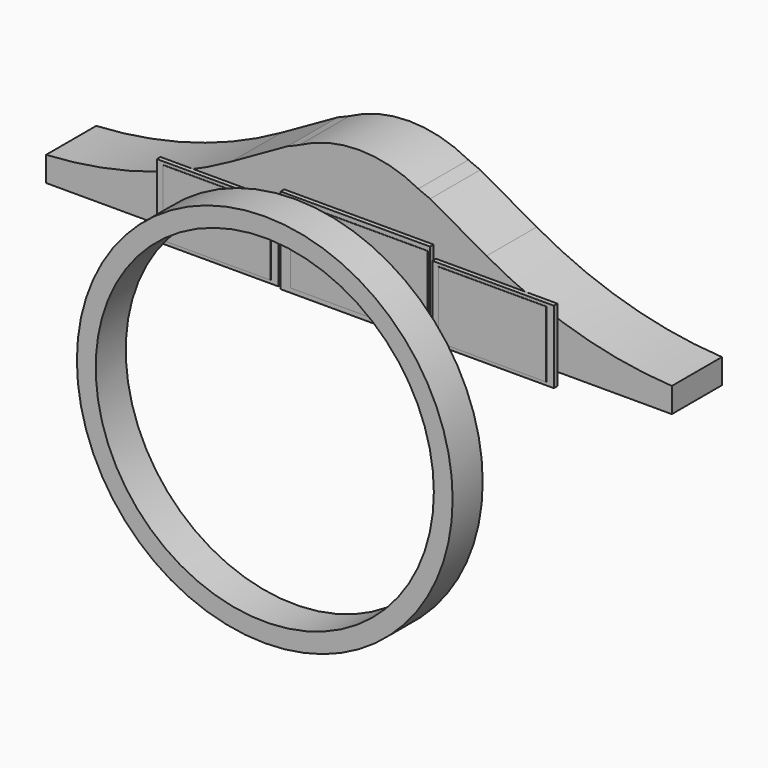
from build123d import *

# Parameters (mm, degrees)
PAD018_DEPTH  = 50
SKETCH002_W   = 119.3
SKETCH002_H   = 68.7
PAD001_DEPTH  = 3.6
SKETCH003_W   = 109.6
SKETCH003_H   = 61.6
PAD002_DEPTH  = 0.3
SKETCH004_W   = 26
SKETCH004_H   = 55.7
PAD003_DEPTH  = 1
SKETCH006_R   = 2.365045
PAD004_DEPTH  = 10
SKETCH034_R   = 150
SKETCH034_R_2 = 135
PAD016_DEPTH  = 30
SKETCH035_W   = 97
SKETCH035_H   = 58
PAD_DEPTH     = 3.6
SKETCH036_W   = 86
SKETCH036_H   = 53
PAD017_DEPTH  = 0.3


with BuildPart() as body:
    # Sketch → Pad018 (new body)
    with BuildSketch(Plane.XZ):
        with BuildLine():
            Line((-92, 12.5), (-93.671337, 9.88106))
            Line((-93.671337, 9.88106), (-145.226562, 5.781609))
            Line((-145.226562, 5.781609), (-249.800049, 5.781609))
            Line((-249.800049, 5.781609), (-249.800049, 25.616026))
            ThreePointArc((-249.800049, 25.616026), (-173.367643, 38.739078), (-101.929333, 68.916806))
            Line((-56.860853, 94.394381), (-101.929333, 68.916806))
            ThreePointArc((-56.860853, 94.394381), (-52.116027, 96.31863), (-47.420578, 98.360409))
            ThreePointArc((47.420578, 98.360409), (0, 110.319005), (-47.420578, 98.360409))
            ThreePointArc((47.420578, 98.360409), (52.116027, 96.31863), (56.860853, 94.394381))
            Line((56.860853, 94.394381), (101.929333, 68.916806))
            ThreePointArc((101.929333, 68.916806), (173.367643, 38.739078), (249.800049, 25.616026))
            Line((249.800049, 5.781609), (249.800049, 25.616026))
            Line((145.226562, 5.781609), (249.800049, 5.781609))
            Line((93.671337, 9.88106), (145.226562, 5.781609))
            Line((92, 12.5), (93.671337, 9.88106))
            ThreePointArc((34.688969, 24.790593), (62.904351, 16.592952), (92, 12.5))
            ThreePointArc((34.688969, 24.790593), (0, 31), (-34.688969, 24.790593))
            ThreePointArc((-92, 12.5), (-62.904351, 16.592952), (-34.688969, 24.790593))
        make_face()
    extrude(amount=-PAD018_DEPTH)


with BuildPart() as body_1:
    # Body placement: moved
    add(body.part.moved(Location((0, 0, 48.2))))


with BuildPart() as obj1:
    # Sketch002 → Pad001 (new body)
    with BuildSketch(Plane.XZ):
        Rectangle(SKETCH002_W, SKETCH002_H)
    extrude(amount=PAD001_DEPTH)

    # Sketch003 → Pad002 (join)
    with BuildSketch(Plane.XZ.offset(3.5)):
        with Locations((3.15, 0)):
            Rectangle(SKETCH003_W, SKETCH003_H)
    extrude(amount=PAD002_DEPTH)

    # Sketch004 → Pad003 (join)
    with BuildSketch(Plane.XZ.offset(-1)):
        with Locations((-46.65, -6.5)):
            Rectangle(SKETCH004_W, SKETCH004_H)
    extrude(amount=PAD003_DEPTH)

    # Sketch006 → Pad004 (join)
    with BuildSketch(Plane.XZ):
        with Locations((3.15, 0)):
            Circle(SKETCH006_R)
    extrude(amount=PAD004_DEPTH)


with BuildPart() as obj1_1:
    # Body001 placement: moved
    add(obj1.part.moved(Location((0, 0, 77))))


with BuildPart() as wheel:
    # Sketch034 → Pad016 (new body)
    with BuildSketch(Plane.XZ):
        Circle(SKETCH034_R)
        Circle(SKETCH034_R_2, mode=Mode.SUBTRACT)
    extrude(amount=PAD016_DEPTH)


with BuildPart() as wheel_1:
    # Body006 placement: moved
    add(wheel.part.moved(Location((0, -64, 0))))


with BuildPart() as obj2:
    # Sketch035 → Pad (new body)
    with BuildSketch(Plane.XZ):
        Rectangle(SKETCH035_W, SKETCH035_H)
    extrude(amount=PAD_DEPTH)

    # Sketch036 → Pad017 (join)
    with BuildSketch(Plane.XZ.offset(3.5)):
        with Locations((-0.5, 0)):
            Rectangle(SKETCH036_W, SKETCH036_H)
    extrude(amount=PAD017_DEPTH)


with BuildPart() as obj3:
    # Body008 base: copy of obj2
    add(obj2.part)


with BuildPart() as obj3_1:
    # Body008 placement: moved
    add(obj3.part.moved(Location((-110, 0, 73))))


with BuildPart() as obj4:
    # Body009 base: copy of obj2
    add(obj2.part)


with BuildPart() as obj4_1:
    # Body009 placement: moved
    add(obj4.part.moved(Location((110, 0, 73))))


solid = Compound([body_1.part, obj1_1.part, wheel_1.part, obj3_1.part, obj4_1.part])
